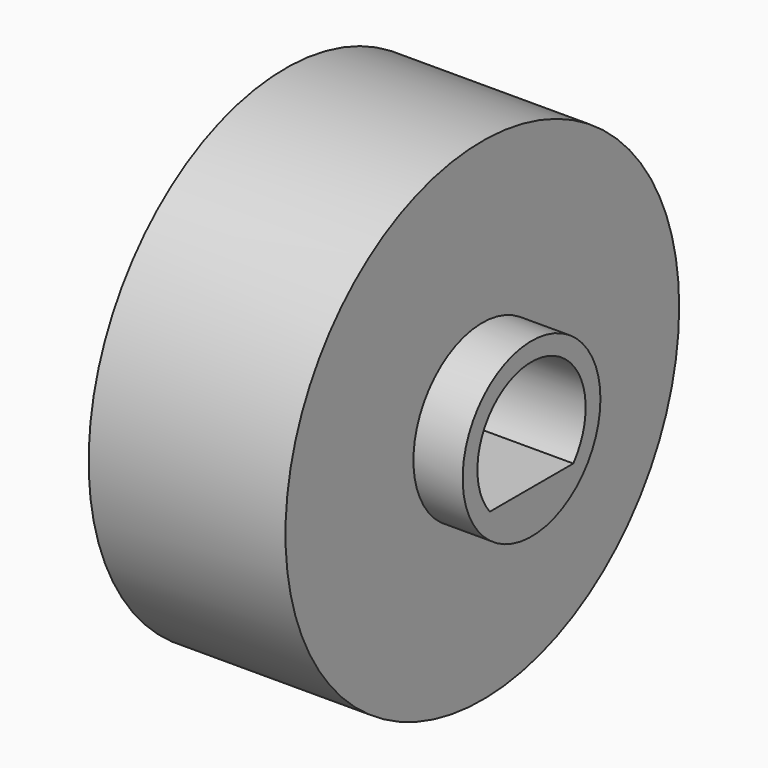
from build123d import *

# Parameters (mm, degrees)
F0_R     = 10
F1_DEPTH = 10
F2_R     = 10
F2_R_2   = 3.5
F3_DEPTH = 2


with BuildPart() as f1:
    # F0 (on Right) → F1 (new body)
    with BuildSketch(Plane.YZ):
        Circle(F0_R)
        with BuildLine():
            ThreePointArc((-2.12132, -1.75), (0, 2.75), (2.12132, -1.75))
            Line((2.12132, -1.75), (-2.12132, -1.75))
        make_face(mode=Mode.SUBTRACT)
    extrude(amount=F1_DEPTH)

    # F2 (on face) → F3 (cut)
    with BuildSketch(Plane.YZ.offset(10)):
        Circle(F2_R)
        Circle(F2_R_2, mode=Mode.SUBTRACT)
    extrude(amount=-F3_DEPTH, mode=Mode.SUBTRACT)


solid = f1.part
